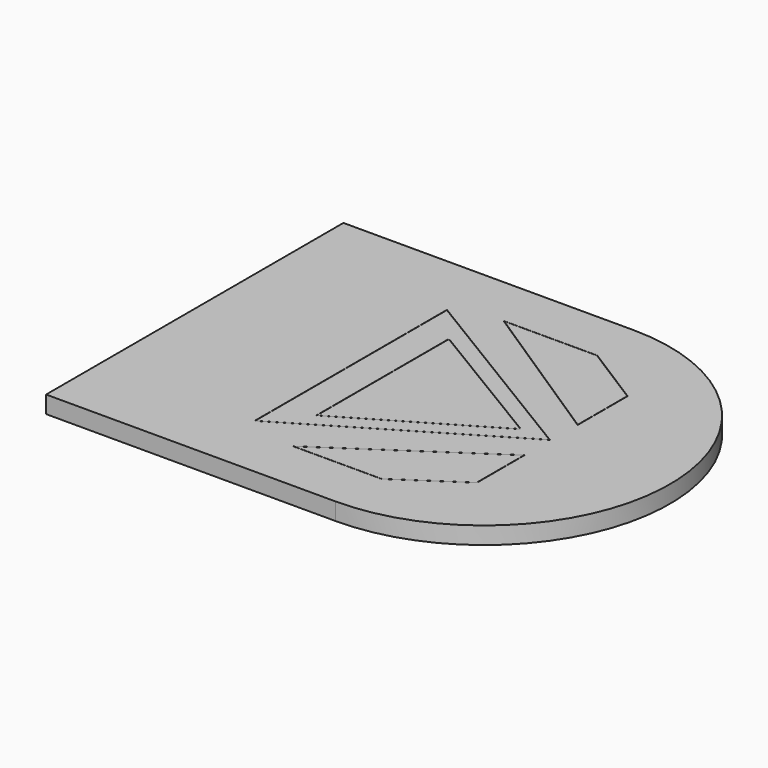
from build123d import *

# Parameters (mm, degrees)
PAD007_DEPTH            = 0.3
PAD007_FACE4_W          = 6.46
PAD007_FACE4_H          = 0.3
PAD008_DEPTH            = 2
POCKET026_DEPTH         = 0.15
BODY014_PLACEMENT_ANGLE = 180


with BuildPart() as part:
    # Sketch031 (on Face1 of Binder006) → Pad007 (new body)
    with BuildSketch(Plane.XY.offset(3.8)):
        with BuildLine():
            Line((-5.12, 3.23), (-8.15, 3.23))
            ThreePointArc((-8.15, 3.23), (-11.38, 0), (-8.15, -3.23))
            Line((-5.12, -3.23), (-8.15, -3.23))
            Line((-5.12, 3.23), (-5.12, -3.23))
        make_face()
    extrude(amount=PAD007_DEPTH)

    # Pad007 Face4 → Pad008 (add)
    with BuildSketch(Plane(origin=(-5.12, 0, 3.95), x_dir=(0, -1, 0), z_dir=(1, 0, 0))):
        Rectangle(PAD007_FACE4_W, PAD007_FACE4_H)
    extrude(amount=PAD008_DEPTH)

    # Sketch032 (on Face5 of Pad008) → Pocket026 (cut)
    with BuildSketch(Plane(origin=(-1, 0, 4.1), x_dir=(1, 0, 0), z_dir=(0, 0, 1))):
        Polygon((-4.813813, 2.067422), (-4.813813, -2.112536), (-8.293962, 0), align=None)
        Polygon((-4.817598, -2.10581), (-8.28661, -3.5e-05), (-4.817598, 2.060771), align=None, mode=Mode.SUBTRACT)
        with BuildLine():
            Line((-5.697012, 2.323923), (-7.225571, 2.323923))
            ThreePointArc((-7.227679, 2.323282), (-7.226673, 2.323759), (-7.225571, 2.323923))
            Line((-7.227679, 2.323282), (-8.303458, 1.601963))
            ThreePointArc((-8.305135, 1.598819), (-8.30469, 1.600601), (-8.303458, 1.601963))
            Line((-8.305135, 1.598819), (-8.305135, 0.571915))
            ThreePointArc((-8.29924, 0.568772), (-8.303131, 0.568575), (-8.305135, 0.571915))
            Line((-8.29924, 0.568772), (-5.694902, 2.316995))
            ThreePointArc((-5.697012, 2.323923), (-5.693391, 2.321241), (-5.694902, 2.316995))
        make_face()
        Polygon((-5.697012, 2.320138), (-7.225571, 2.320138), (-8.30135, 1.598819), (-8.30135, 0.571915), align=None, mode=Mode.SUBTRACT)
        with BuildLine():
            Line((-8.312973, -0.584129), (-8.312973, -1.661884))
            ThreePointArc((-8.31121, -1.665084), (-8.312503, -1.663711), (-8.312973, -1.661884))
            Line((-8.31121, -1.665084), (-7.244274, -2.339343))
            ThreePointArc((-7.242252, -2.339928), (-7.243305, -2.339779), (-7.244274, -2.339343))
            Line((-7.242252, -2.339928), (-5.628575, -2.339928))
            ThreePointArc((-5.626504, -2.332975), (-5.624947, -2.337223), (-5.628575, -2.339928))
            Line((-5.626504, -2.332975), (-8.307117, -0.580961))
            ThreePointArc((-8.312973, -0.584129), (-8.310989, -0.5808), (-8.307117, -0.580961))
        make_face()
        Polygon((-8.309188, -0.584129), (-8.309188, -1.661884), (-7.242252, -2.336143), (-5.628575, -2.336143), align=None, mode=Mode.SUBTRACT)
        Polygon((-5.368459, 1.420284), (-5.368459, -1.462254), (-7.790784, 0), align=None)
        Polygon((-5.372244, 1.413677), (-5.372244, -1.455548), (-7.783381, -4.7e-05), align=None, mode=Mode.SUBTRACT)
    extrude(amount=-POCKET026_DEPTH, mode=Mode.SUBTRACT)


with BuildPart() as part_1:
    # Body014 placement: moved
    add(part.part.moved(Location((-12, 0, 0))).rotate(Axis((-12, 0, 0), (0, 0, 1)), BODY014_PLACEMENT_ANGLE))


solid = part_1.part
